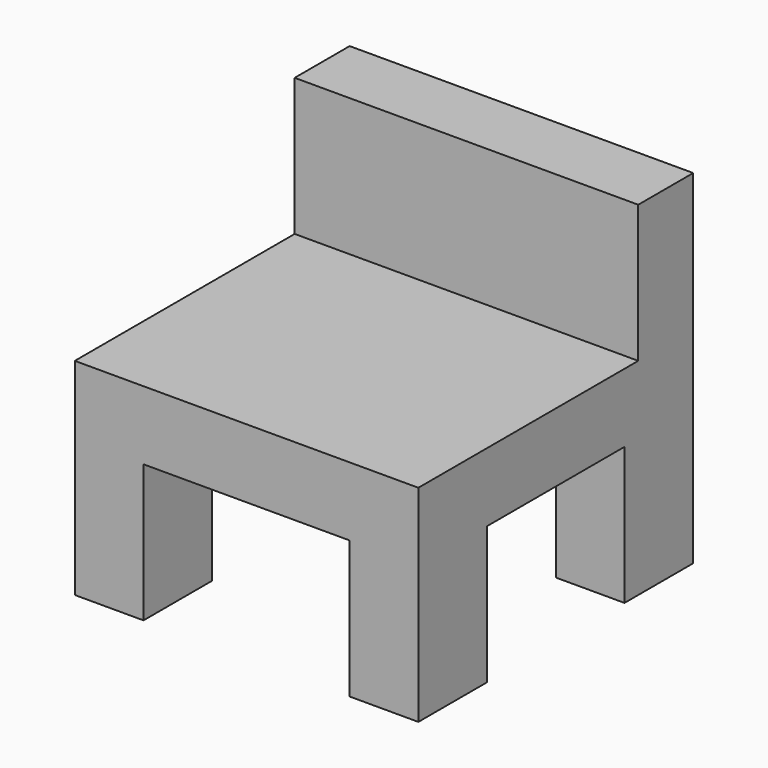
from build123d import *

# Parameters (mm, degrees)
F0_W     = 100
F0_H     = 100
F1_DEPTH = 100
F2_W     = 100
F2_H     = 80
F3_DEPTH = 40
F4_W     = 60
F4_H     = 40
F5_DEPTH = 100.001
F6_W     = 50
F6_H     = 40
F7_DEPTH = 100.001


with BuildPart() as f1:
    # F0 (on Top) → F1 (new body)
    with BuildSketch(Plane.XY):
        Rectangle(F0_W, F0_H)
    extrude(amount=F1_DEPTH)

    # F2 (on face) → F3 (cut)
    with BuildSketch(Plane.XY.offset(100)):
        with Locations((0, -10)):
            Rectangle(F2_W, F2_H)
    extrude(amount=-F3_DEPTH, mode=Mode.SUBTRACT)

    # F4 (on face) → F5 (cut, through all)
    with BuildSketch(Plane.XZ.offset(50)):
        with Locations((0, 20)):
            Rectangle(F4_W, F4_H)
    extrude(amount=-F5_DEPTH, mode=Mode.SUBTRACT)

    # F6 (on face) → F7 (cut, through all)
    with BuildSketch(Plane.YZ.offset(50)):
        with Locations((0, 20)):
            Rectangle(F6_W, F6_H)
    extrude(amount=-F7_DEPTH, mode=Mode.SUBTRACT)


solid = f1.part
